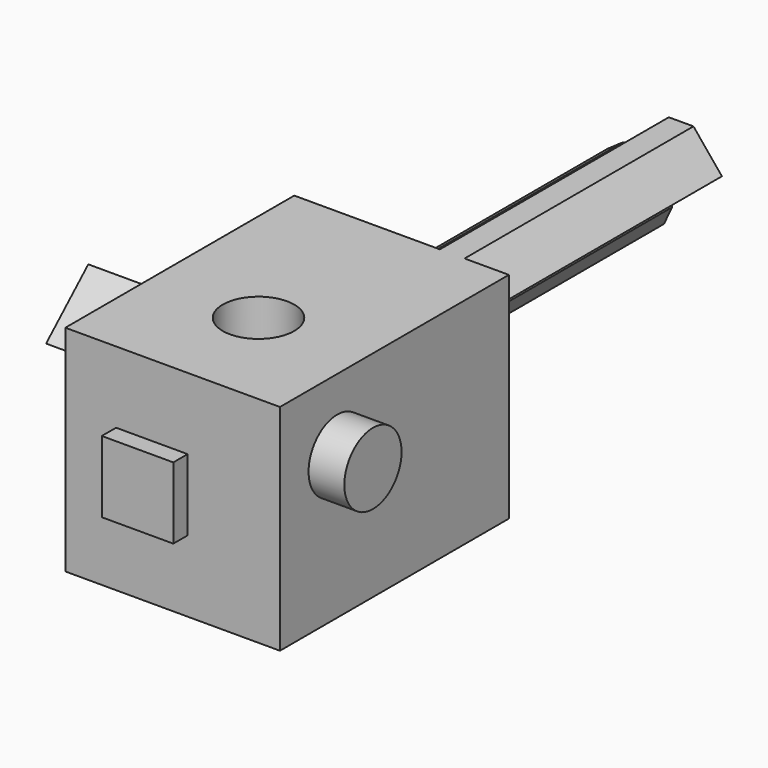
from build123d import *

# Parameters (mm, degrees)
F0_W      = 76.2
F0_H      = 76.2
F1_DEPTH  = 76.2
F2_W      = 25.4
F2_H      = 25.4
F3_DEPTH  = 6.35
F4_R      = 12.7
F5_DEPTH  = 12.7
F7_D      = 25.4
F9_DEPTH  = 25.4
F11_DEPTH = 25.4
F12_DEPTH = 127


with BuildPart() as f1:
    # F0 (on Front) → F1 (new body)
    with BuildSketch(Plane.XZ):
        with Locations((-36.9649222121, 39.7534392561)):
            Rectangle(F0_W, F0_H)
    extrude(amount=F1_DEPTH)

    # F2 (on face) → F3 (join)
    with BuildSketch(Plane.XZ.offset(76.2)):
        with Locations((-44.3486804143, 39.7534392561)):
            Rectangle(F2_W, F2_H)
    extrude(amount=F3_DEPTH)

    # F4 (on face) → F5 (join)
    with BuildSketch(Plane.YZ.offset(1.1350777879)):
        with Locations((-50.8, 52.4534392561)):
            Circle(F4_R)
    extrude(amount=F5_DEPTH)

    # F7 (through all)
    with Locations(Plane.XY.offset(77.8534392561)):
        with Locations((-36.9649222121, -38.1)):
            Hole(F7_D / 2)

    # F8 (on face) → F9 (join)
    with BuildSketch(Plane(origin=(-75.0649222121, 0, 0), x_dir=(0, -1, 0), z_dir=(-1, 0, 0))):
        Polygon((28.7754268733, 47.5637023159), (52.9997243198, 55.2019883295), (34.2726258674, 72.3617023001), align=None)
    extrude(amount=F9_DEPTH)

    # F10 (on face) → F11 (join)
    with BuildSketch(Plane(origin=(0, 0, 0), x_dir=(-1, 0, 0), z_dir=(0, 1, 0))):
        Polygon((48.0731389709, 54.716393042), (47.494721, 47.9351072785), (43.6031534613, 42.3515505225), (37.4411787343, 39.4618322976), (30.6598929708, 40.0402502686), (25.0763362148, 43.9318178073), (22.1866179899, 50.0937925343), (22.7650359609, 56.8750782978), (26.2971690254, 61.9429244137), (4.4938835457, 65.529052283), (14.595719446, 77.8534392561), (-1.1350777879, 77.8534392561), (-1.1350777879, 1.6534392561), (75.0649222121, 1.6534392561), (75.0649222121, 77.8534392561), (23.3556207336, 77.8534392561), (28.7842644927, 63.4564224548), (32.8185782266, 65.3483532786), (39.5998639901, 64.7699353076), (45.1834207461, 60.878367769), align=None)
    extrude(amount=F11_DEPTH)

    # F12 (add): a face of the model
    f12_faces = [f1.faces().sort_by_distance(p)[0] for p in [
        (-29.6209638301, 0, 57.8915936643),
    ]]
    extrude(f12_faces, amount=F12_DEPTH)


solid = f1.part
